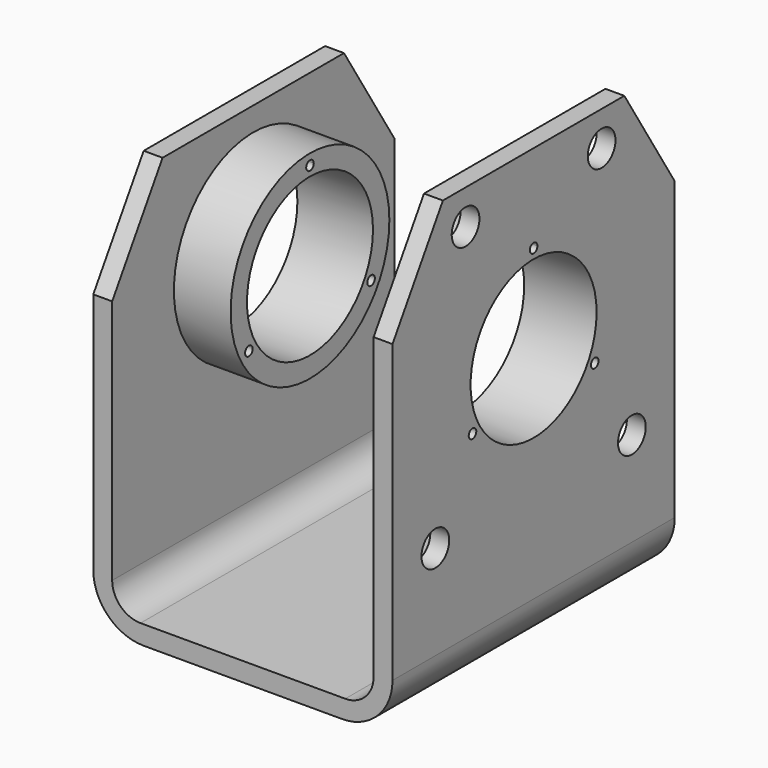
from build123d import *

# Parameters (mm, degrees)
F1_DEPTH    = 112
F2_R        = 25
F3_DEPTH    = 185
F2_R_2      = 31.5
F5_DEPTH    = 184
F6_DEPTH    = 95
F7_W        = 48
F7_H        = 100
F8_DEPTH    = 159
F9_R        = 5.5
F10_DEPTH   = 39.1
F9_R_2      = 1.5
F11_DEPTH   = 154.4
F12_SIZE2   = 32
F12_SIZE    = 20
F12_2_SIZE2 = 32
F12_2_SIZE  = 20


with BuildPart() as f1:
    # F0 (on Front) → F1 (new body)
    with BuildSketch(Plane.XZ):
        with BuildLine():
            ThreePointArc((-59.7957043946, -22.8214863997), (-55.1094128936, -34.1351948987), (-43.7957043946, -38.8214863997))
            Line((-43.7957043946, -38.8214863997), (19.2042956054, -38.8214863997))
            ThreePointArc((19.2042956054, -38.8214863997), (30.5180041044, -34.1351948987), (35.2042956054, -22.8214863997))
            Line((35.2042956054, -22.8214863997), (35.2042956054, 103.1785136003))
            Line((35.2042956054, 103.1785136003), (29.2042956054, 103.1785136003))
            Line((29.2042956054, 103.1785136003), (29.2042956054, 87.1785136003))
            Line((29.2042956054, 87.1785136003), (29.2042956054, -23.8214863997))
            ThreePointArc((29.2042956054, -23.8214863997), (26.5682566361, -30.1854474304), (20.2042956054, -32.8214863997))
            Line((20.2042956054, -32.8214863997), (-44.7957043946, -32.8214863997))
            ThreePointArc((-44.7957043946, -32.8214863997), (-51.1596654253, -30.1854474304), (-53.7957043946, -23.8214863997))
            Line((-53.7957043946, -23.8214863997), (-53.7957043946, 86.1785136003))
            Line((-53.7957043946, 86.1785136003), (-59.7957043946, 86.1785136003))
            Line((-59.7957043946, 86.1785136003), (-59.7957043946, -22.8214863997))
        make_face()
    extrude(amount=F1_DEPTH)

    # F2 (on face) → F3 (cut)
    with BuildSketch(Plane.YZ.offset(35.2042956054)):
        with Locations((-56, 47.1785136003)):
            Circle(F2_R)
    extrude(amount=-F3_DEPTH, mode=Mode.SUBTRACT)

    # F2 (on face) → F5 (cut)
    with BuildSketch(Plane.YZ.offset(35.2042956054)):
        with Locations((-56, 47.1785136003)):
            Circle(F2_R_2)
        with Locations((-56, 47.1785136003)):
            Circle(F2_R, mode=Mode.SUBTRACT)
    extrude(amount=-F5_DEPTH, mode=Mode.SUBTRACT)

    # F2 (on face) → F6 (join)
    with BuildSketch(Plane.YZ.offset(35.2042956054)):
        with Locations((-56, 47.1785136003)):
            Circle(F2_R_2)
        with Locations((-56, 47.1785136003)):
            Circle(F2_R, mode=Mode.SUBTRACT)
    extrude(amount=-F6_DEPTH)

    # F7 (on offset) → F8 (cut)
    with BuildSketch(Plane.XZ.offset(137)):
        with Locations((-11.7957043946, 29.1785136003)):
            Rectangle(F7_W, F7_H)
    extrude(amount=-F8_DEPTH, mode=Mode.SUBTRACT)

    # F9 (on face) → F10 (cut)
    with BuildSketch(Plane.YZ.offset(35.2042956054)):
        with Locations((-83, 92.1785136003)):
            Circle(F9_R)
        with Locations((-29, 92.1785136003)):
            Circle(F9_R)
        with Locations((-95, 7.1785136003)):
            Circle(F9_R)
        with Locations((-17, 7.1785136003)):
            Circle(F9_R)
    extrude(amount=-F10_DEPTH, mode=Mode.SUBTRACT)

    # F9 (on face) → F11 (cut)
    with BuildSketch(Plane.YZ.offset(35.2042956054)):
        with Locations((-31.751288694, 33.2468845546)):
            Circle(F9_R_2)
        with Locations((-80.248711306, 33.2468845546)):
            Circle(F9_R_2)
        with BuildLine():
            ThreePointArc((-56, 73.7468845546), (-54.9393398282, 74.1862243828), (-54.5, 75.2468845546))
            ThreePointArc((-54.5, 75.2468845546), (-57.0606601718, 76.3075447264), (-56, 73.7468845546))
        make_face()
    extrude(amount=-F11_DEPTH, mode=Mode.SUBTRACT)

    # F12
    f12_edges = [f1.edges().sort_by_distance(p)[0] for p in [
        (-56.795704, 0, 86.178514),
        (-56.795704, -112, 86.178514),
    ]]
    f12_side = f1.faces().sort_by_distance((-56.795704, -56, 86.178514))[0]
    chamfer(f12_edges, length=F12_SIZE, length2=F12_SIZE2, reference=f12_side)

    # F12#2
    f12_2_edges = [f1.edges().sort_by_distance(p)[0] for p in [
        (32.204296, 0, 103.178514),
        (32.204296, -112, 103.178514),
    ]]
    f12_2_side = f1.faces().sort_by_distance((32.204296, -56, 103.178514))[0]
    chamfer(f12_2_edges, length=F12_2_SIZE, length2=F12_2_SIZE2, reference=f12_2_side)


solid = f1.part
